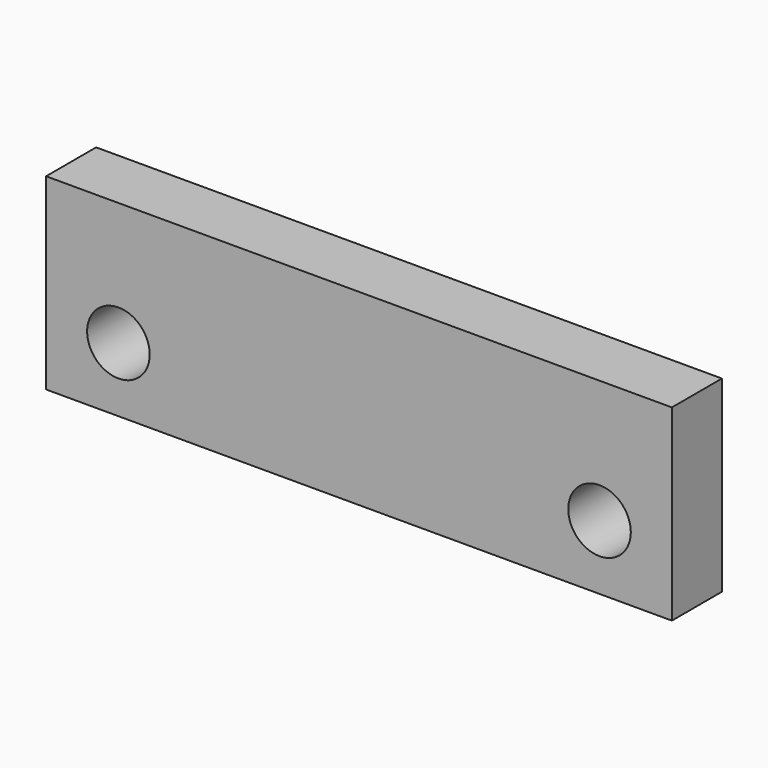
from build123d import *

# Parameters (mm, degrees)
F0_W     = 63.5
F0_H     = 19.05
F0_R     = 3.175
F1_DEPTH = 3.175


with BuildPart() as f1:
    # F0 (on Front) → F1 (new body, symmetric)
    with BuildSketch(Plane.XZ):
        Rectangle(F0_W, F0_H)
        with Locations((-24.4094, -2.981336)):
            Circle(F0_R, mode=Mode.SUBTRACT)
        with Locations((24.4094, -2.981336)):
            Circle(F0_R, mode=Mode.SUBTRACT)
    extrude(amount=F1_DEPTH, both=True)


solid = f1.part
